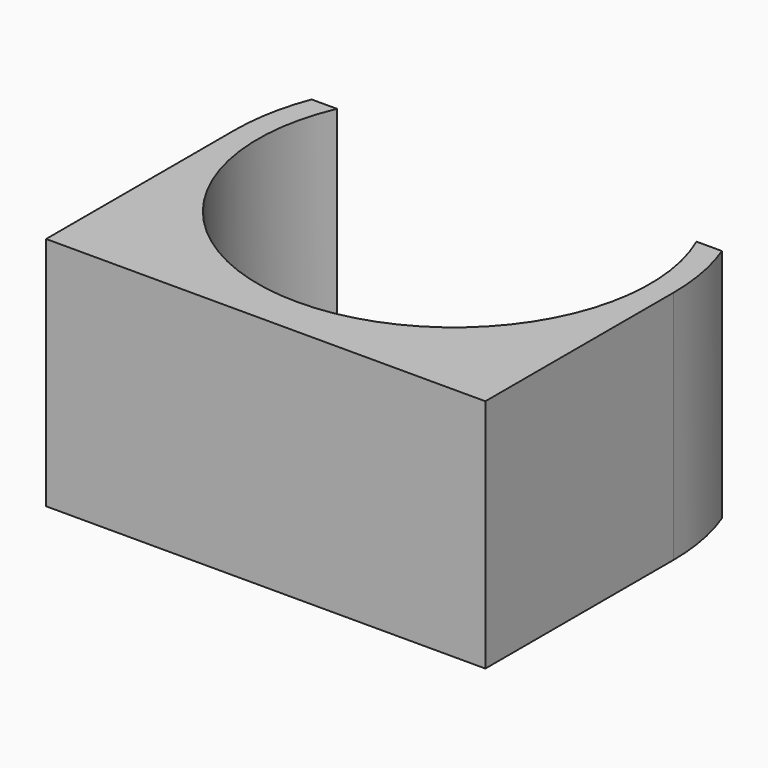
from build123d import *

# Parameters (mm, degrees)
F1_DEPTH = 15


with BuildPart() as f1:
    # F0 (on Top) → F1 (new body)
    with BuildSketch(Plane.XY):
        with BuildLine():
            ThreePointArc((25.456439, 20), (14, 2.5), (2.543561, 20))
            Line((2.543561, 20), (0.923303, 20))
            ThreePointArc((0.923303, 20), (0.232761, 17.542267), (0, 15))
            Line((0, 15), (0, 0))
            Line((0, 0), (28, 0))
            Line((28, 0), (28, 15))
            ThreePointArc((28, 15), (27.767239, 17.542267), (27.076697, 20))
            Line((27.076697, 20), (25.456439, 20))
        make_face()
    extrude(amount=F1_DEPTH)


solid = f1.part
